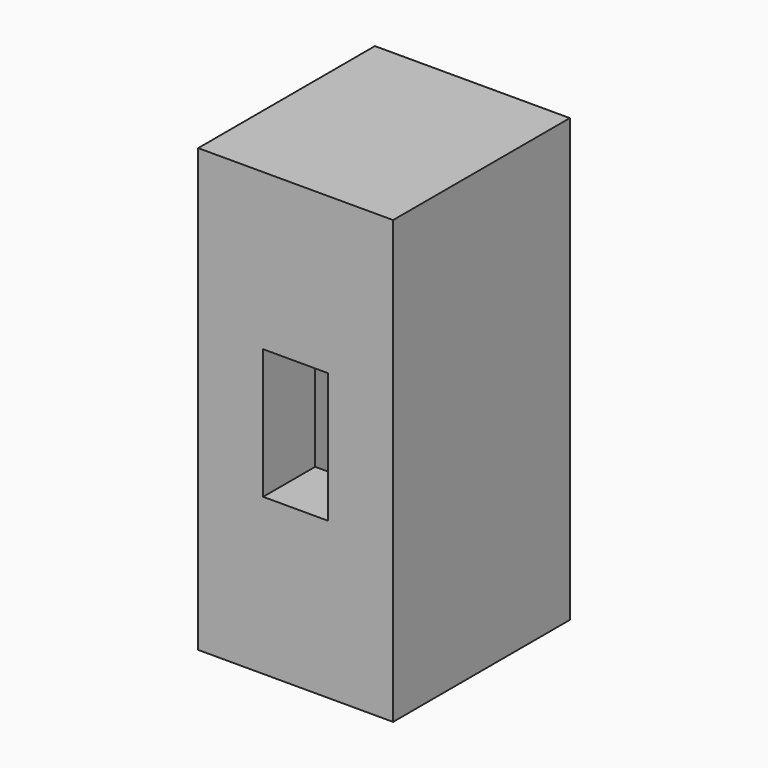
from build123d import *

# Parameters (mm, degrees)
F0_W     = 10
F0_H     = 170
F1_DEPTH = 37.5
F2_W     = 65
F2_H     = 4.9
F3_DEPTH = 10
F4_W     = 75
F4_H     = 170
F4_W_2   = 65
F4_H_2   = 144.9
F5_DEPTH = 50
F6_W     = 75
F6_H     = 170
F6_W_2   = 25
F6_H_2   = 50
F7_DEPTH = 25


with BuildPart() as f1:
    # F0 (on Right) → F1 (new body, symmetric)
    with BuildSketch(Plane.YZ):
        with Locations((-36.757313, -17.352806)):
            Rectangle(F0_W, F0_H)
    extrude(amount=F1_DEPTH, both=True)

    # F2 (on face) → F3 (cut, through all)
    with BuildSketch(Plane.XZ.offset(41.757313)):
        with Locations((0, 65.097194)):
            Rectangle(F2_W, F2_H)
        with Locations((0, 55.097194)):
            Rectangle(F2_W, F2_H)
        with Locations((0, 45.097194)):
            Rectangle(F2_W, F2_H)
        with Locations((0, 35.097194)):
            Rectangle(F2_W, F2_H)
        with Locations((0, 25.097194)):
            Rectangle(F2_W, F2_H)
        with Locations((0, 15.097194)):
            Rectangle(F2_W, F2_H)
        with Locations((0, 5.097194)):
            Rectangle(F2_W, F2_H)
        with Locations((0, -4.902806)):
            Rectangle(F2_W, F2_H)
        with Locations((0, -14.902806)):
            Rectangle(F2_W, F2_H)
        with Locations((0, -24.902806)):
            Rectangle(F2_W, F2_H)
        with Locations((0, -34.902806)):
            Rectangle(F2_W, F2_H)
        with Locations((0, -44.902806)):
            Rectangle(F2_W, F2_H)
        with Locations((0, -54.902806)):
            Rectangle(F2_W, F2_H)
        with Locations((0, -64.902806)):
            Rectangle(F2_W, F2_H)
        with Locations((0, -74.902806)):
            Rectangle(F2_W, F2_H)
        with Locations((0, -84.902806)):
            Rectangle(F2_W, F2_H)
    extrude(amount=-F3_DEPTH, mode=Mode.SUBTRACT)

    # F4 (on face) → F5 (join)
    with BuildSketch(Plane.XZ.offset(41.757313)):
        with Locations((0, -17.352806)):
            Rectangle(F4_W, F4_H)
        with Locations((0, -14.902806)):
            Rectangle(F4_W_2, F4_H_2, mode=Mode.SUBTRACT)
    extrude(amount=F5_DEPTH)

    # F6 (on face) → F7 (join)
    with BuildSketch(Plane.XZ.offset(91.757313)):
        with Locations((0, -17.352806)):
            Rectangle(F6_W, F6_H)
        with Locations((0, -17.352806)):
            Rectangle(F6_W_2, F6_H_2, mode=Mode.SUBTRACT)
    extrude(amount=F7_DEPTH)


solid = f1.part
